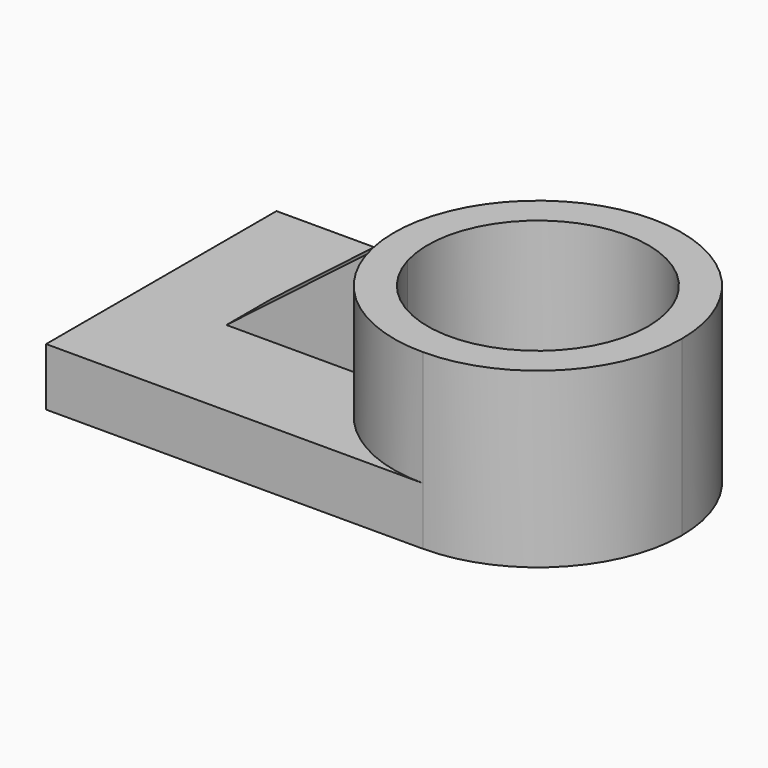
from build123d import *

# Parameters (mm, degrees)
F1_DEPTH = 76.2
F2_DEPTH = 25.4
F3_DEPTH = 74.93
F5_DEPTH = 76.94354


with BuildPart() as f1:
    # F0 (on Top) → F1 (new body)
    with BuildSketch(Plane.XY):
        with BuildLine():
            ThreePointArc((41.615028, -63.304463), (86.378043, -44.763015), (104.919491, 0))
            ThreePointArc((104.919491, 0), (86.378043, 44.763015), (41.615028, 63.304463))
            ThreePointArc((41.615028, 63.304463), (1.13027, 48.666615), (-20.631962, 11.522469))
            ThreePointArc((-20.631962, 11.522469), (-21.681366, -1.010742), (-20.232328, -13.504057))
            ThreePointArc((-20.232328, -13.504057), (1.912459, -49.306805), (41.615028, -63.304463))
        make_face()
        with BuildLine():
            ThreePointArc((-4.955136, -13.504057), (34.795208, 48.00656), (90.103581, 0))
            ThreePointArc((90.103581, 0), (48.434848, -48.00656), (-4.955136, -13.504057))
        make_face(mode=Mode.SUBTRACT)
    extrude(amount=F1_DEPTH)

    # F0 (on Top) → F2 (join)
    with BuildSketch(Plane.XY):
        with BuildLine():
            ThreePointArc((-20.631962, 11.522469), (1.13027, 48.666615), (41.615028, 63.304463))
            Line((41.615028, 63.304463), (41.615028, 63.438483))
            Line((41.615028, 63.438483), (-124.193631, 63.438483))
            Line((-124.193631, 63.438483), (-124.193631, -63.304463))
            Line((-124.193631, -63.304463), (41.615028, -63.304463))
            ThreePointArc((41.615028, -63.304463), (1.912459, -49.306805), (-20.232328, -13.504057))
            Line((-20.232328, -13.504057), (-84.665962, -13.504057))
            Line((-84.665962, -13.504057), (-84.665962, 11.522469))
            Line((-84.665962, 11.522469), (-20.631962, 11.522469))
        make_face()
    extrude(amount=F2_DEPTH)

    # F0 (on Top) → F3 (join)
    with BuildSketch(Plane.XY):
        with BuildLine():
            ThreePointArc((-20.232328, -13.504057), (-21.681366, -1.010742), (-20.631962, 11.522469))
            Line((-20.631962, 11.522469), (-84.665962, 11.522469))
            Line((-84.665962, 11.522469), (-84.665962, -13.504057))
            Line((-84.665962, -13.504057), (-20.232328, -13.504057))
        make_face()
    extrude(amount=F3_DEPTH)

    # F4 (on face) → F5 (cut, through all)
    with BuildSketch(Plane.XZ.offset(13.504057)):
        Polygon((-84.665962, 25.4), (-20.232328, 74.93), (-84.665962, 74.93), align=None)
    extrude(amount=-F5_DEPTH, mode=Mode.SUBTRACT)


solid = f1.part
